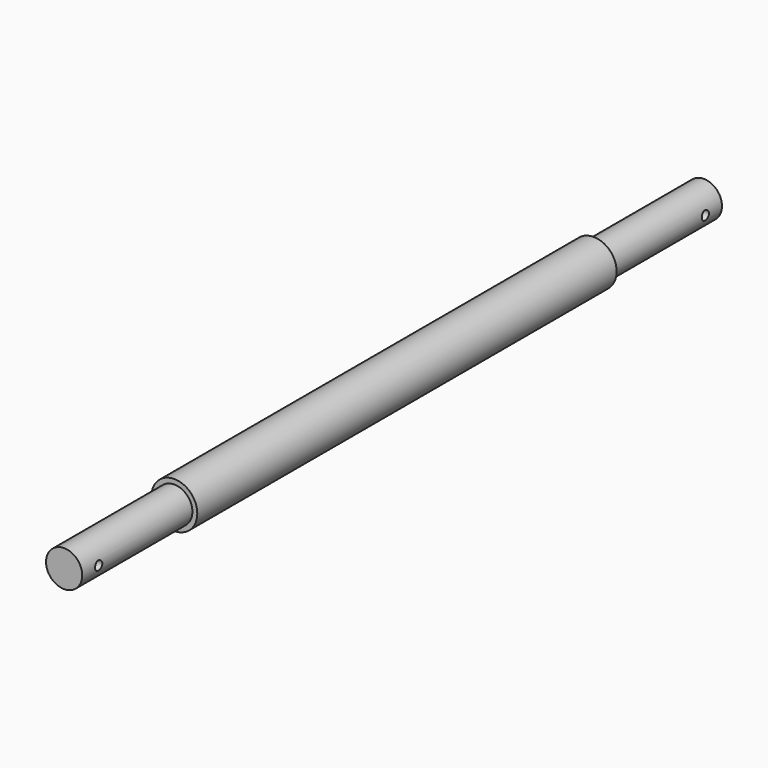
from build123d import *

# Parameters (mm, degrees)
F0_R     = 12.7
F0_R_2   = 10
F1_DEPTH = 290
F2_DEPTH = 76.2
F3_R     = 10
F4_DEPTH = 76.2
F5_R     = 2.5
F5_R_2   = 2.5019
F6_DEPTH = 63.5


with BuildPart() as f1:
    # F0 (on Front) → F1 (new body)
    with BuildSketch(Plane.XZ):
        Circle(F0_R)
        Circle(F0_R_2, mode=Mode.SUBTRACT)
        Circle(F0_R_2)
    extrude(amount=-F1_DEPTH)

    # F0 (on Front) → F2 (join)
    with BuildSketch(Plane.XZ):
        Circle(F0_R_2)
    extrude(amount=F2_DEPTH)

    # F3 (on face) → F4 (join)
    with BuildSketch(Plane(origin=(0, 290, 0), x_dir=(-1, 0, 0), z_dir=(0, 1, 0))):
        Circle(F3_R)
    extrude(amount=F4_DEPTH)

    # F5 (on Right) → F6 (cut, symmetric)
    with BuildSketch(Plane.YZ):
        with Locations((-64.77, 0)):
            Circle(F5_R)
        with Locations((354.77, 0)):
            Circle(F5_R_2)
    extrude(amount=F6_DEPTH, both=True, mode=Mode.SUBTRACT)


solid = f1.part
